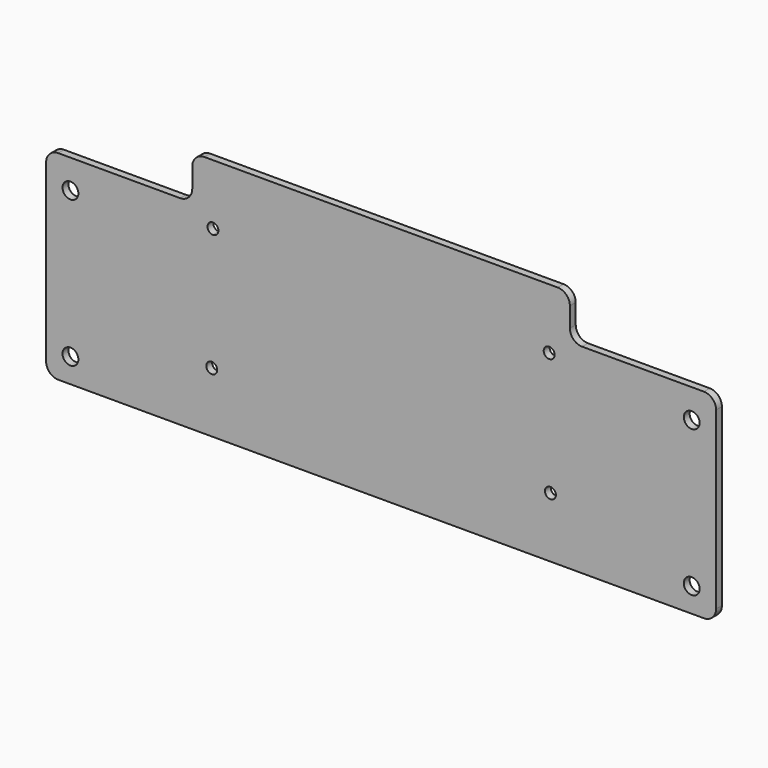
from build123d import *

# Parameters (mm, degrees)
F0_R     = 3.25
F0_R_2   = 2.25
F1_DEPTH = 3


with BuildPart() as f1:
    # F0 (on Front) → F1 (new body)
    with BuildSketch(Plane.XZ):
        with BuildLine():
            Line((-132.5, -50), (132.5, -50))
            ThreePointArc((132.5, -50), (136.035534, -48.535534), (137.5, -45))
            Line((137.5, -45), (137.5, 26.887341))
            ThreePointArc((137.5, 26.887341), (136.035534, 30.422875), (132.5, 31.887341))
            Line((132.5, 31.887341), (82.5, 31.887341))
            ThreePointArc((82.5, 31.887341), (78.964466, 33.351807), (77.5, 36.887341))
            Line((77.5, 36.887341), (77.5, 45))
            ThreePointArc((77.5, 45), (76.035534, 48.535534), (72.5, 50))
            Line((72.5, 50), (-72.5, 50))
            ThreePointArc((-72.5, 50), (-76.035534, 48.535534), (-77.5, 45))
            Line((-77.5, 45), (-77.5, 36.887341))
            ThreePointArc((-77.5, 36.887341), (-78.964466, 33.351807), (-82.5, 31.887341))
            Line((-82.5, 31.887341), (-132.5, 31.887341))
            ThreePointArc((-132.5, 31.887341), (-136.035534, 30.422875), (-137.5, 26.887341))
            Line((-137.5, 26.887341), (-137.5, -45))
            ThreePointArc((-137.5, -45), (-136.035534, -48.535534), (-132.5, -50))
        make_face()
        with Locations((-127.5, -40)):
            Circle(F0_R, mode=Mode.SUBTRACT)
        with Locations((-69.5, -25.25)):
            Circle(F0_R_2, mode=Mode.SUBTRACT)
        with Locations((127.5, -40)):
            Circle(F0_R, mode=Mode.SUBTRACT)
        with Locations((69.5, -25.25)):
            Circle(F0_R_2, mode=Mode.SUBTRACT)
        with Locations((-127.5, 20)):
            Circle(F0_R, mode=Mode.SUBTRACT)
        with BuildLine():
            ThreePointArc((-69, 27.5), (-67.40901, 26.84099), (-66.75, 25.25))
            ThreePointArc((-66.75, 25.25), (-67.40901, 23.65901), (-69, 23))
            ThreePointArc((-69, 23), (-71.25, 25.25), (-69, 27.5))
        make_face(mode=Mode.SUBTRACT)
        with Locations((127.5, 20)):
            Circle(F0_R, mode=Mode.SUBTRACT)
        with Locations((69, 25.25)):
            Circle(F0_R_2, mode=Mode.SUBTRACT)
    extrude(amount=F1_DEPTH)


solid = f1.part
